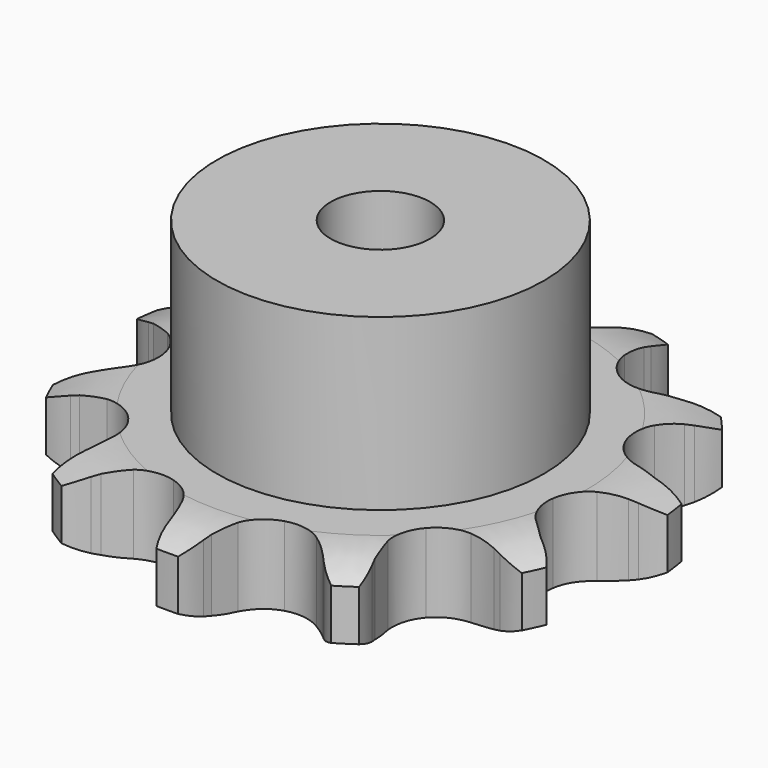
from build123d import *

# Parameters (mm, degrees)
PAD_DEPTH         = 11.1
SKETCH001_R       = 23
PAD001_DEPTH      = 35
SKETCH002_R       = 7
POCKET_DEPTH      = 0.001
POCKET_DEPTH_BACK = -35.001


with BuildPart() as part:
    # Sprocket → Pad (new body)
    with BuildSketch(Plane.XY):
        with BuildLine():
            ThreePointArc((-11.137083, 37.929422), (-8.841993, 36.141003), (-7.143232, 33.778781))
            Line((-7.143232, 33.778781), (-6.625418, 32.785992))
            ThreePointArc((-6.625418, 32.785992), (-5.717578, 31.261428), (-4.64411, 29.848582))
            ThreePointArc((-4.64411, 29.848582), (-2.557394, 28.267026), (0, 27.705384))
            ThreePointArc((0, 27.705384), (2.557394, 28.267026), (4.64411, 29.848582))
            ThreePointArc((4.64411, 29.848582), (5.717578, 31.261428), (6.625418, 32.785992))
            Line((6.625418, 32.785992), (7.143232, 33.778781))
            ThreePointArc((7.143232, 33.778781), (8.841993, 36.141003), (11.137083, 37.929422))
            ThreePointArc((11.137083, 37.929422), (12.100944, 35.184089), (12.252918, 32.278442))
            Line((12.252918, 32.278442), (12.151789, 31.163303))
            ThreePointArc((12.151789, 31.163303), (12.091271, 29.389943), (12.230488, 27.621021))
            ThreePointArc((12.230488, 27.621021), (13.130891, 25.162367), (14.978662, 23.307252))
            ThreePointArc((14.978662, 23.307252), (17.433725, 22.397104), (20.044236, 22.59943))
            Line((20.044236, 22.59943), (23.299101, 23.99936))
            ThreePointArc((23.299101, 23.99936), (23.780346, 24.285617), (24.271457, 24.554596))
            ThreePointArc((24.271457, 24.554596), (26.977659, 25.623404), (29.875304, 25.887098))
            ThreePointArc((29.875304, 25.887098), (29.201916, 23.056475), (27.758854, 20.529925))
            Line((27.758854, 20.529925), (27.070889, 19.646485))
            ThreePointArc((27.070889, 19.646485), (26.061227, 18.187359), (25.221992, 16.62398))
            ThreePointArc((25.221992, 16.62398), (24.650211, 14.068834), (25.201704, 11.509233))
            ThreePointArc((25.201704, 11.509233), (26.774971, 9.41626), (29.080458, 8.175118))
            Line((29.080458, 8.175118), (32.575485, 7.593101))
            ThreePointArc((32.575485, 7.593101), (33.135096, 7.573735), (33.693666, 7.5345))
            ThreePointArc((33.693666, 7.5345), (36.548109, 6.970556), (39.128327, 5.625804))
            ThreePointArc((39.128327, 5.625804), (37.031487, 3.608593), (34.451549, 2.263303))
            Line((34.451549, 2.263303), (33.395173, 1.892047))
            ThreePointArc((33.395173, 1.892047), (31.756928, 1.210417), (30.205692, 0.348943))
            ThreePointArc((30.205692, 0.348943), (28.343263, -1.491454), (27.423383, -3.942887))
            ThreePointArc((27.423383, -3.942887), (27.615353, -6.55418), (28.883841, -8.844736))
            Line((28.883841, -8.844736), (31.509382, -11.223914))
            ThreePointArc((31.509382, -11.223914), (31.969687, -11.542754), (32.418374, -11.877746))
            ThreePointArc((32.418374, -11.877746), (34.514793, -13.895395), (35.958383, -16.421643))
            ThreePointArc((35.958383, -16.421643), (33.103822, -16.984992), (30.206122, -16.721902))
            Line((30.206122, -16.721902), (29.116725, -16.463102))
            ThreePointArc((29.116725, -16.463102), (27.370028, -16.150824), (25.599298, -16.03688))
            ThreePointArc((25.599298, -16.03688), (23.037529, -16.578216), (20.938332, -18.143168))
            ThreePointArc((20.938332, -18.143168), (19.688056, -20.443715), (19.516808, -23.056449))
            Line((19.516808, -23.056449), (20.439274, -26.477415))
            ThreePointArc((20.439274, -26.477415), (20.654128, -26.9945), (20.850477, -27.518892))
            ThreePointArc((20.850477, -27.518892), (21.523274, -30.349656), (21.371906, -33.255335))
            ThreePointArc((21.371906, -33.255335), (18.665927, -32.185961), (16.370464, -30.398022))
            Line((16.370464, -30.398022), (15.593923, -29.591333))
            ThreePointArc((15.593923, -29.591333), (14.293338, -28.384292), (12.865308, -27.331108))
            ThreePointArc((12.865308, -27.331108), (10.417543, -26.401511), (7.805509, -26.583121))
            ThreePointArc((7.805509, -26.583121), (5.50994, -27.842514), (3.953327, -29.947902))
            Line((3.953327, -29.947902), (2.87984, -33.324525))
            ThreePointArc((2.87984, -33.324525), (2.781029, -33.875683), (2.662701, -34.422984))
            ThreePointArc((2.662701, -34.422984), (1.698267, -37.168116), (0, -39.530693))
            ThreePointArc((0, -39.530693), (-1.698267, -37.168116), (-2.662701, -34.422984))
            Line((-2.662701, -34.422984), (-2.87984, -33.324525))
            ThreePointArc((-2.87984, -33.324525), (-3.321386, -31.605948), (-3.953327, -29.947902))
            ThreePointArc((-3.953327, -29.947902), (-5.50994, -27.842514), (-7.805509, -26.583121))
            ThreePointArc((-7.805509, -26.583121), (-10.417543, -26.401511), (-12.865308, -27.331108))
            Line((-12.865308, -27.331108), (-15.593923, -29.591333))
            ThreePointArc((-15.593923, -29.591333), (-15.975026, -30.001576), (-16.370464, -30.398022))
            ThreePointArc((-16.370464, -30.398022), (-18.665927, -32.185961), (-21.371906, -33.255335))
            ThreePointArc((-21.371906, -33.255335), (-21.523274, -30.349656), (-20.850477, -27.518892))
            Line((-20.850477, -27.518892), (-20.439274, -26.477415))
            ThreePointArc((-20.439274, -26.477415), (-19.881593, -24.792939), (-19.516808, -23.056449))
            ThreePointArc((-19.516808, -23.056449), (-19.688056, -20.443715), (-20.938332, -18.143168))
            ThreePointArc((-20.938332, -18.143168), (-23.037529, -16.578216), (-25.599298, -16.03688))
            Line((-25.599298, -16.03688), (-29.116725, -16.463102))
            ThreePointArc((-29.116725, -16.463102), (-29.659124, -16.602181), (-30.206122, -16.721902))
            ThreePointArc((-30.206122, -16.721902), (-33.103822, -16.984992), (-35.958383, -16.421643))
            ThreePointArc((-35.958383, -16.421643), (-34.514793, -13.895395), (-32.418374, -11.877746))
            Line((-32.418374, -11.877746), (-31.509382, -11.223914))
            ThreePointArc((-31.509382, -11.223914), (-30.129535, -10.108347), (-28.883841, -8.844736))
            ThreePointArc((-28.883841, -8.844736), (-27.615353, -6.55418), (-27.423383, -3.942887))
            ThreePointArc((-27.423383, -3.942887), (-28.343263, -1.491454), (-30.205692, 0.348943))
            Line((-30.205692, 0.348943), (-33.395173, 1.892047))
            ThreePointArc((-33.395173, 1.892047), (-33.92666, 2.06829), (-34.451549, 2.263303))
            ThreePointArc((-34.451549, 2.263303), (-37.031487, 3.608593), (-39.128327, 5.625804))
            ThreePointArc((-39.128327, 5.625804), (-36.548109, 6.970556), (-33.693666, 7.5345))
            Line((-33.693666, 7.5345), (-32.575485, 7.593101))
            ThreePointArc((-32.575485, 7.593101), (-30.811563, 7.785574), (-29.080458, 8.175118))
            ThreePointArc((-29.080458, 8.175118), (-26.774971, 9.41626), (-25.201704, 11.509233))
            ThreePointArc((-25.201704, 11.509233), (-24.650211, 14.068834), (-25.221992, 16.62398))
            Line((-25.221992, 16.62398), (-27.070889, 19.646485))
            ThreePointArc((-27.070889, 19.646485), (-27.42272, 20.082093), (-27.758854, 20.529925))
            ThreePointArc((-27.758854, 20.529925), (-29.201916, 23.056475), (-29.875304, 25.887098))
            ThreePointArc((-29.875304, 25.887098), (-26.977659, 25.623404), (-24.271457, 24.554596))
            Line((-24.271457, 24.554596), (-23.299101, 23.99936))
            ThreePointArc((-23.299101, 23.99936), (-21.711137, 23.20763), (-20.044236, 22.59943))
            ThreePointArc((-20.044236, 22.59943), (-17.433725, 22.397104), (-14.978662, 23.307252))
            ThreePointArc((-14.978662, 23.307252), (-13.130891, 25.162367), (-12.230488, 27.621021))
            Line((-12.230488, 27.621021), (-12.151789, 31.163303))
            ThreePointArc((-12.151789, 31.163303), (-12.212261, 31.719974), (-12.252918, 32.278442))
            ThreePointArc((-12.252918, 32.278442), (-12.100944, 35.184089), (-11.137083, 37.929422))
        make_face()
    extrude(amount=PAD_DEPTH)

    # Sketch → Groove (revolve, cut)
    with BuildSketch(Plane.XZ):
        with BuildLine():
            Line((29.014719, 0), (37.5, 0))
            Line((45.985281, 0), (37.5, 0))
            Line((45.985281, 11.1), (45.985281, 0))
            Line((37.5, 11.1), (45.985281, 11.1))
            Line((29.014719, 11.1), (37.5, 11.1))
            ThreePointArc((37.5, 9.1), (33.373618, 10.593242), (29.014719, 11.1))
            Line((37.5, 2), (37.5, 9.1))
            ThreePointArc((29.014719, 0), (33.373618, 0.506758), (37.5, 2))
        make_face()
    revolve(axis=Axis((0, 0, 0), (0, 0, 1)), mode=Mode.SUBTRACT)

    # Sketch001 → Pad001 (join)
    with BuildSketch(Plane.XY):
        Circle(SKETCH001_R)
    extrude(amount=PAD001_DEPTH)

    # Sketch002 → Pocket (cut, two sides)
    with BuildSketch(Plane.XY) as pocket_sk:
        Circle(SKETCH002_R)
    extrude(amount=-POCKET_DEPTH, mode=Mode.SUBTRACT)
    extrude(pocket_sk.sketch, amount=-POCKET_DEPTH_BACK, mode=Mode.SUBTRACT)


solid = part.part
